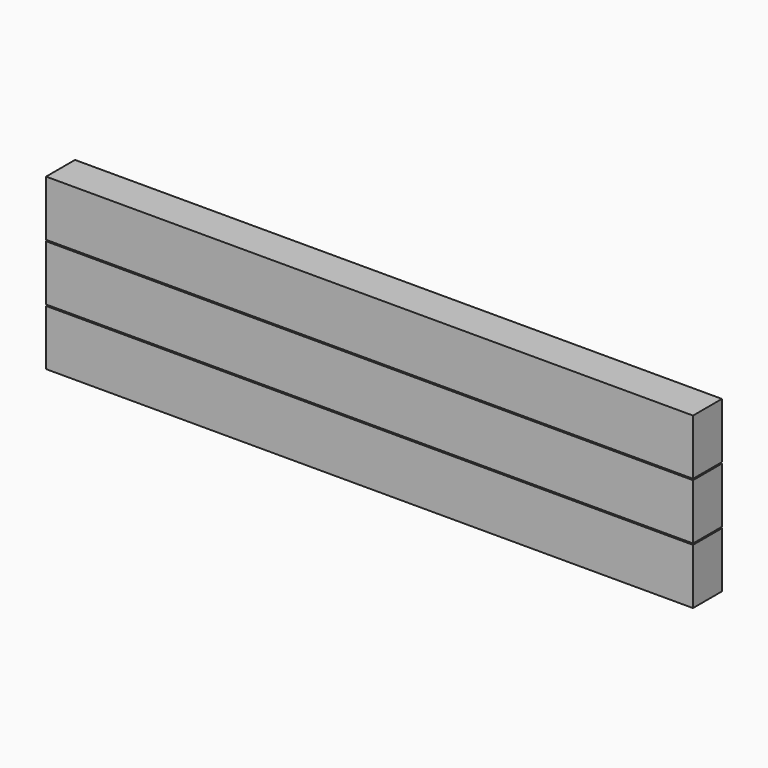
from build123d import *

# Parameters (mm, degrees)
F0_W     = 127
F0_H     = 7.093087
F1_DEPTH = 10.922


with BuildPart() as f1:
    # F0 (on Top) → F1 (new body)
    with BuildSketch(Plane.XY):
        with Locations((1.932019, -33.621226)):
            Rectangle(F0_W, F0_H)
    extrude(amount=F1_DEPTH)


with BuildPart() as f2_1:
    # F2: copy of F1
    add(f1.part.moved(Location((0, 25.4, 11.176))))


with BuildPart() as f4_1:
    # F4: copy of F1
    add(f1.part.moved(Location((0, 0, 11.176))))


with BuildPart() as f5_1:
    # F5: copy of F4_1
    add(f4_1.part.moved(Location((0, 0, 11.176))))


solid = Compound([f1.part, f4_1.part, f5_1.part])
